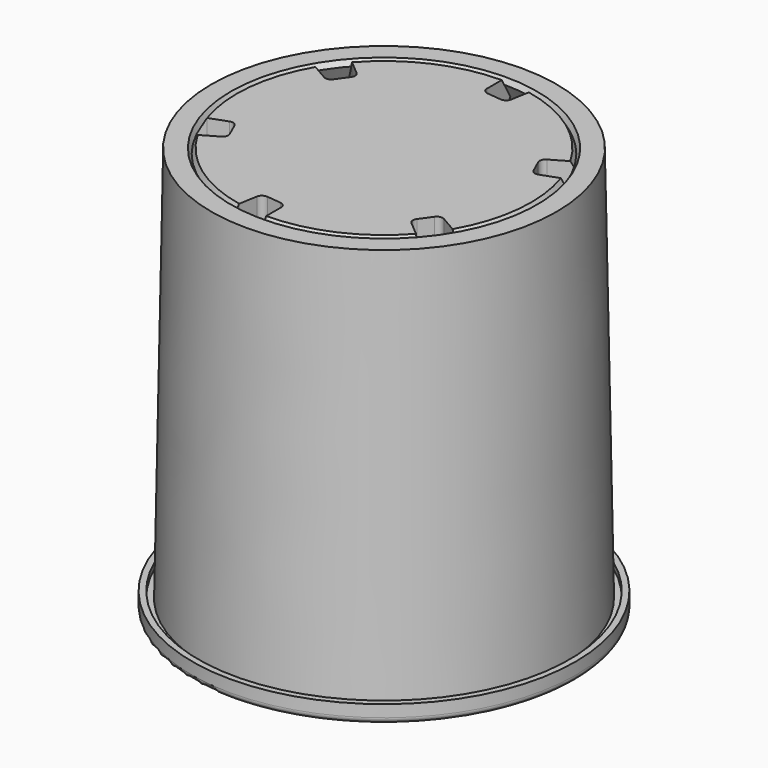
from build123d import *

# Parameters (mm, degrees)
F3_SIZE   = 1.5875
F3_2_SIZE = 1.5875
F4_R      = 1.5875
F6_DEPTH  = 25.4
F7_COUNT  = 6


with BuildPart() as f1:
    # F0 (on Front) → F1 (revolve)
    with BuildSketch(Plane.XZ):
        Polygon((-50.7435518079, 0), (-44.45, 0), (-42.6273097603, 101.6), (-38.961135551, 107.95), (-45.6889024982, 107.95), (-47.5685518079, 3.175), (-49.1560518079, 3.175), (-49.1560518079, 4.7625), (-50.7435518079, 4.7625), align=None)
    revolve(axis=Axis((0, 0, 104.775), (0, 0, -1)))

    # F3
    f3_edges = [f1.edges().sort_by_distance(p)[0] for p in [
        (38.961136, 0, 107.95),
    ]]
    chamfer(f3_edges, length=F3_SIZE)

    # F4
    f4_edges = [f1.edges().sort_by_distance(p)[0] for p in [
        (44.45, 0, 0),
        (50.743552, 0, 0),
    ]]
    fillet(f4_edges, radius=F4_R)


with BuildPart() as f2:
    # F0 (on Front) → F2 (revolve)
    with BuildSketch(Plane.XZ):
        Polygon((-38.961135551, 107.95), (-42.6273097603, 101.6), (0, 101.6), (0, 107.95), align=None)
    revolve(axis=Axis((0, 0, 104.775), (0, 0, -1)))

    # F3#2
    f3_2_edges = [f2.edges().sort_by_distance(p)[0] for p in [
        (42.62731, 0, 101.6),
    ]]
    chamfer(f3_2_edges, length=F3_2_SIZE)


with BuildPart() as f6:
    # F5 (on face) → F6 (new body)
    with BuildSketch(Plane.XY.offset(107.95)):
        with BuildLine():
            Line((7.8039343776, 38.1715691536), (8.906949362, 44.4270779816))
            ThreePointArc((8.906949362, 44.4270779816), (4.4753576595, 45.0895794917), (0, 45.311135551))
            Line((0, 45.311135551), (0, 38.961135551))
            ThreePointArc((0, 38.961135551), (3.9218875196, 38.7632413725), (7.8039343776, 38.1715691536))
        make_face()
        with BuildLine():
            Line((6.9575258612, 33.3713479229), (7.8039343776, 38.1715691536))
            ThreePointArc((7.8039343776, 38.1715691536), (3.9218875196, 38.7632413725), (0, 38.961135551))
            Line((0, 38.961135551), (0, 34.042317477))
            ThreePointArc((0, 34.042317477), (0.4084191051, 32.9793384117), (1.4235269206, 32.4633085856))
            Line((1.4235269206, 32.4633085856), (5.2301704739, 32.0680055135))
            ThreePointArc((5.2301704739, 32.0680055135), (6.3503139912, 32.3797755389), (6.9575258612, 33.3713479229))
        make_face()
    extrude(amount=-F6_DEPTH)


with BuildPart() as f7_1:
    # F7: instance of F6
    add(f6.part.rotate(Axis((0, 0, 104.775), (0, 0, -1)), 1 * 360 / F7_COUNT))


with BuildPart() as f7_2:
    # F7: instance of F6
    add(f6.part.rotate(Axis((0, 0, 104.775), (0, 0, -1)), 2 * 360 / F7_COUNT))


with BuildPart() as f7_3:
    # F7: instance of F6
    add(f6.part.rotate(Axis((0, 0, 104.775), (0, 0, -1)), 3 * 360 / F7_COUNT))


with BuildPart() as f7_4:
    # F7: instance of F6
    add(f6.part.rotate(Axis((0, 0, 104.775), (0, 0, -1)), 4 * 360 / F7_COUNT))


with BuildPart() as f7_5:
    # F7: instance of F6
    add(f6.part.rotate(Axis((0, 0, 104.775), (0, 0, -1)), 5 * 360 / F7_COUNT))


with BuildPart() as f2_1:
    add(f2.part)

    # F8: cut F7_4, F7_3, F7_2, F7_1, F6, F7_5
    add(f7_4.part, mode=Mode.SUBTRACT)
    add(f7_3.part, mode=Mode.SUBTRACT)
    add(f7_2.part, mode=Mode.SUBTRACT)
    add(f7_1.part, mode=Mode.SUBTRACT)
    add(f6.part, mode=Mode.SUBTRACT)
    add(f7_5.part, mode=Mode.SUBTRACT)


solid = Compound([f1.part, f2_1.part])
